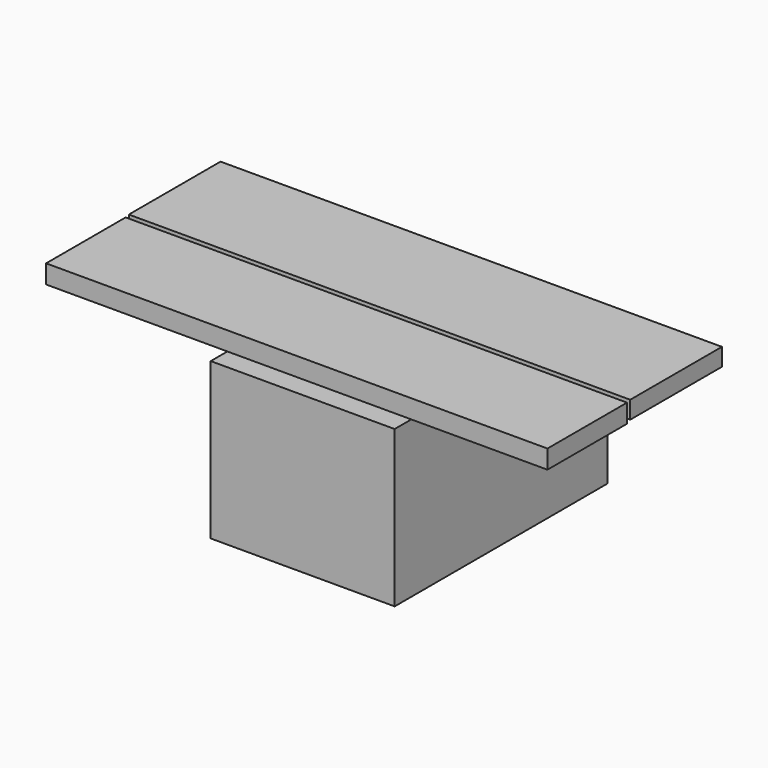
from build123d import *

# Parameters (mm, degrees)
F0_W      = 90.2540013194
F0_H      = 76.625905931
F1_DEPTH  = 75.184
F2_W      = 87.2799269855
F2_H      = 48.7919023726
F3_DEPTH  = 9.144
F4_W      = 48.7919023726
F4_H      = 9.144
F5_DEPTH  = 66.802
F6_W      = 48.7919023726
F6_H      = 9.144
F7_DEPTH  = 91.948
F8_W      = 90.2540013194
F8_H      = 12.7788623795
F9_DEPTH  = 8.636
F10_DEPTH = 55.372


with BuildPart() as f1:
    # F0 (on Front) → F1 (new body)
    with BuildSketch(Plane.XZ):
        with Locations((2.9570385814, -6.9426186383)):
            Rectangle(F0_W, F0_H)
    extrude(amount=F1_DEPTH)

    # F2 (on face) → F3 (join)
    with BuildSketch(Plane.XY.offset(31.3703343272)):
        with Locations((4.4440757483, -40.5677921372)):
            Rectangle(F2_W, F2_H)
    extrude(amount=F3_DEPTH)

    # F4 (on face) → F5 (join)
    with BuildSketch(Plane.YZ.offset(48.0840392411)):
        with Locations((-40.5677921372, 35.9423343272)):
            Rectangle(F4_W, F4_H)
    extrude(amount=F5_DEPTH)

    # F6 (on face) → F7 (join)
    with BuildSketch(Plane(origin=(-39.1958877444, 0, 0), x_dir=(0, -1, 0), z_dir=(-1, 0, 0))):
        with Locations((40.5677921372, 35.9423343272)):
            Rectangle(F6_W, F6_H)
    extrude(amount=F7_DEPTH)

    # F8 (on face) → F9 (join)
    with BuildSketch(Plane.XY.offset(31.3703343272)):
        Polygon((-132.288813591, 43.4794910252), (-132.288813591, -12.7788623795), (-42.1699620783, -12.7788623795), (-42.1699620783, 0), (48.0840392411, 0), (48.0840392411, -12.7788623795), (113.7418448925, -12.7788623795), (113.7418448925, 43.4794910252), align=None)
        with Locations((2.9570385814, -6.3894311897)):
            Rectangle(F8_W, F8_H)
    extrude(amount=F9_DEPTH)

    # F10 (add): a face of the model
    f10_faces = [f1.faces().sort_by_distance(p)[0] for p in [
        (2.9570385814, 0, -6.9426186383),
    ]]
    extrude(f10_faces, amount=F10_DEPTH)


solid = f1.part
